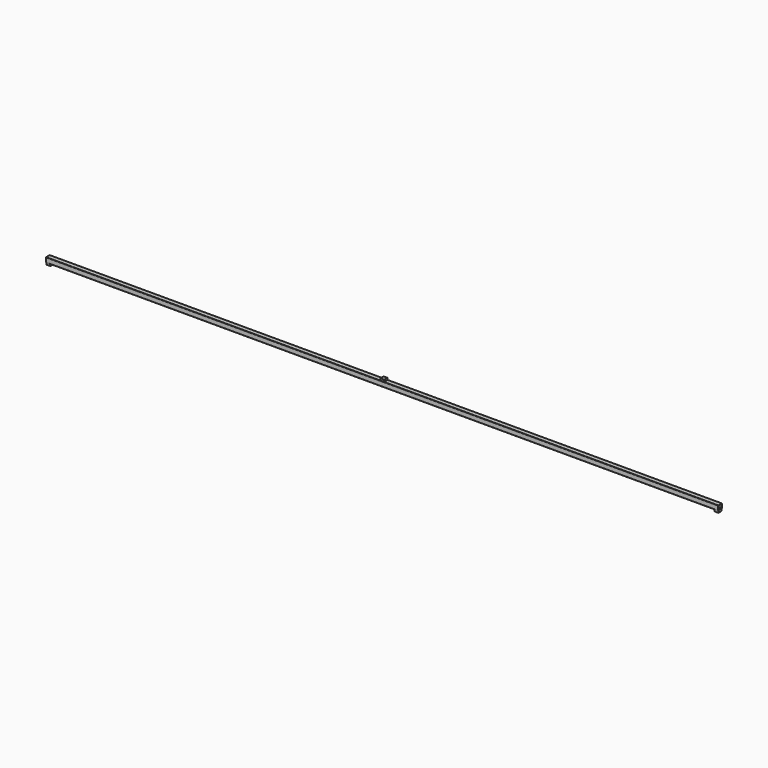
from build123d import *

# Parameters (mm, degrees)
F1_DEPTH = 1750
F2_W     = 20.913882
F2_H     = 21
F3_DEPTH = 10
F4_W     = 21.33584
F4_H     = 21
F5_DEPTH = 10
F4_W_2   = 20.724654
F6_DEPTH = 10


with BuildPart() as f1:
    # F0 (on Right) → F1 (new body, symmetric)
    with BuildSketch(Plane.YZ):
        with BuildLine():
            ThreePointArc((12.5, 10.5), (11.914214, 11.914214), (10.5, 12.5))
            Line((10.5, 12.5), (-10.5, 12.5))
            ThreePointArc((-10.5, 12.5), (-11.914214, 11.914214), (-12.5, 10.5))
            Line((-12.5, 10.5), (-12.5, -10.5))
            ThreePointArc((-12.5, -10.5), (-11.914214, -11.914214), (-10.5, -12.5))
            Line((-10.5, -12.5), (10.5, -12.5))
            ThreePointArc((10.5, -12.5), (11.914214, -11.914214), (12.5, -10.5))
            Line((12.5, -10.5), (12.5, 10.5))
        make_face()
        with BuildLine():
            Line((-8.5, 10.5), (8.5, 10.5))
            ThreePointArc((8.5, 10.5), (9.914214, 9.914214), (10.5, 8.5))
            Line((10.5, 8.5), (10.5, -8.5))
            ThreePointArc((10.5, -8.5), (9.914214, -9.914214), (8.5, -10.5))
            Line((8.5, -10.5), (-8.5, -10.5))
            ThreePointArc((-8.5, -10.5), (-9.914214, -9.914214), (-10.5, -8.5))
            Line((-10.5, -8.5), (-10.5, 8.5))
            ThreePointArc((-10.5, 8.5), (-9.914214, 9.914214), (-8.5, 10.5))
        make_face(mode=Mode.SUBTRACT)
        with BuildLine():
            ThreePointArc((12.5, 10.5), (11.914214, 11.914214), (10.5, 12.5))
            Line((10.5, 12.5), (-10.5, 12.5))
            ThreePointArc((-10.5, 12.5), (-11.914214, 11.914214), (-12.5, 10.5))
            Line((-12.5, 10.5), (-12.5, -10.5))
            ThreePointArc((-12.5, -10.5), (-11.914214, -11.914214), (-10.5, -12.5))
            Line((-10.5, -12.5), (10.5, -12.5))
            ThreePointArc((10.5, -12.5), (11.914214, -11.914214), (12.5, -10.5))
            Line((12.5, -10.5), (12.5, 10.5))
        make_face()
        with BuildLine():
            Line((-8.5, 10.5), (8.5, 10.5))
            ThreePointArc((8.5, 10.5), (9.914214, 9.914214), (10.5, 8.5))
            Line((10.5, 8.5), (10.5, -8.5))
            ThreePointArc((10.5, -8.5), (9.914214, -9.914214), (8.5, -10.5))
            Line((8.5, -10.5), (-8.5, -10.5))
            ThreePointArc((-8.5, -10.5), (-9.914214, -9.914214), (-10.5, -8.5))
            Line((-10.5, -8.5), (-10.5, 8.5))
            ThreePointArc((-10.5, 8.5), (-9.914214, 9.914214), (-8.5, 10.5))
        make_face(mode=Mode.SUBTRACT)
    extrude(amount=F1_DEPTH, both=True)

    # F2 (on face) → F3 (join)
    with BuildSketch(Plane.XY.offset(12.5)):
        Rectangle(F2_W, F2_H)
    extrude(amount=F3_DEPTH)

    # F4 (on face) → F5 (join)
    with BuildSketch(Plane(origin=(0, 0, -12.5), x_dir=(1, 0, 0), z_dir=(0, 0, -1))):
        with Locations((-1739.33208, 0)):
            Rectangle(F4_W, F4_H)
    extrude(amount=F5_DEPTH)

    # F4 (on face) → F6 (join)
    with BuildSketch(Plane(origin=(0, 0, -12.5), x_dir=(1, 0, 0), z_dir=(0, 0, -1))):
        with Locations((1739.637673, 0)):
            Rectangle(F4_W_2, F4_H)
    extrude(amount=F6_DEPTH)


solid = f1.part
